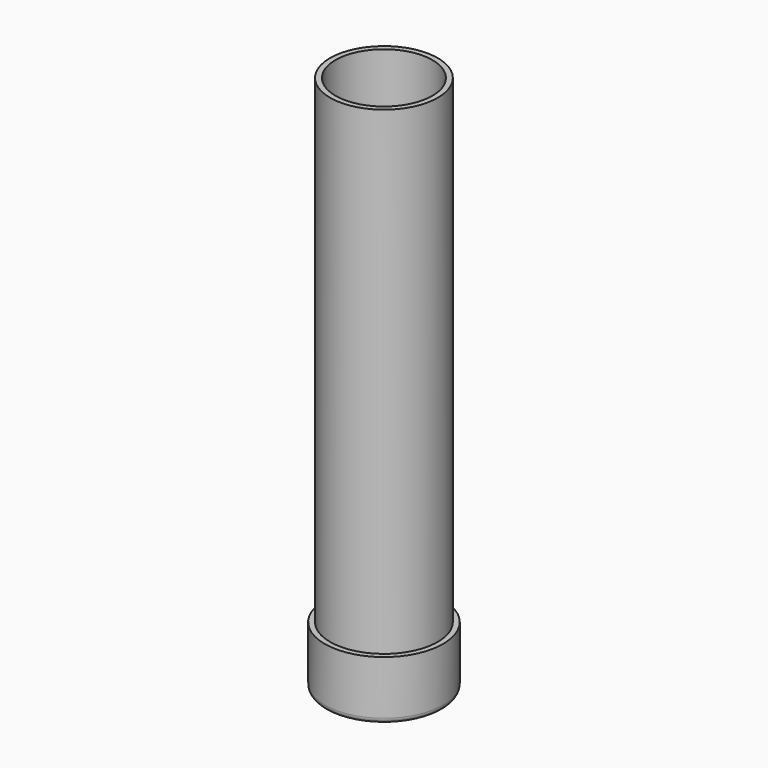
from build123d import *


with BuildPart() as f1:
    # F0 (on Front) → F1 (revolve)
    with BuildSketch(Plane.XZ):
        with BuildLine():
            ThreePointArc((-55, 5), (-53.535534, 1.464466), (-50, 0))
            Line((-50, 0), (-50, 55))
            Line((-50, 55), (-55, 55))
            Line((-55, 55), (-55, 5))
        make_face()
        Polygon((-50, 0), (0, 0), (0, 5), (-45, 5), (-45, 500), (-50, 500), (-50, 55), align=None)
    revolve(axis=Axis((0, 0, 252.5), (0, 0, -1)))


solid = f1.part
